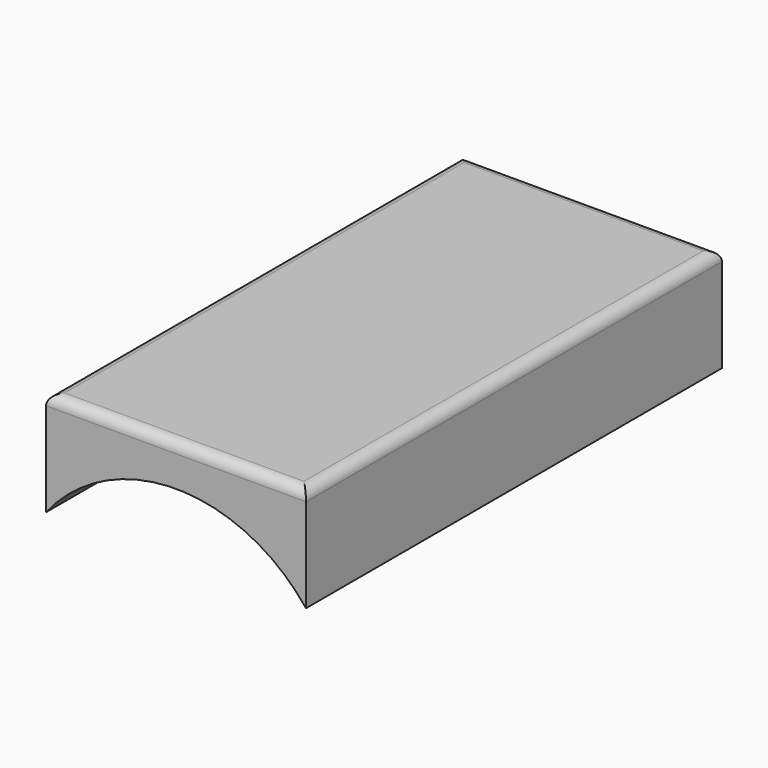
from build123d import *

# Parameters (mm, degrees)
F1_DEPTH = 50
F2_R     = 1


with BuildPart() as f1:
    # F0 (on Front) → F1 (new body)
    with BuildSketch(Plane.XZ):
        with BuildLine():
            Line((12.5, 20), (0, 20))
            Line((0, 20), (-12.5, 20))
            Line((-12.5, 20), (-12.5, 9.987492))
            ThreePointArc((-12.5, 9.987492), (0, 16.035915), (12.5, 9.987492))
            Line((12.5, 9.987492), (12.5, 20))
        make_face()
    extrude(amount=F1_DEPTH)

    # F2
    f2_edges = [f1.edges().sort_by_distance(p)[0] for p in [
        (12.5, -25, 20),
        (0, -50, 20),
        (-12.5, -25, 20),
        (0, 0, 20),
    ]]
    fillet(f2_edges, radius=F2_R)


solid = f1.part
